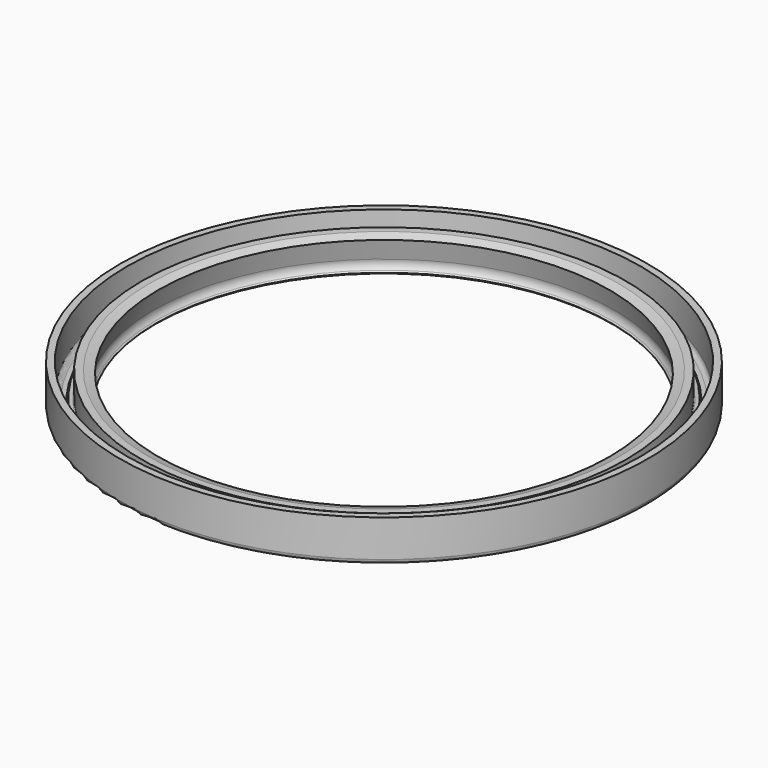
from build123d import *


with BuildPart() as f1:
    # F0 (on Front) → F1 (revolve)
    with BuildSketch(Plane.XZ):
        with BuildLine():
            Line((-111.615613, 0), (-112.615613, 0))
            Line((-112.615613, 0), (-112.615613, -10))
            ThreePointArc((-112.615613, -10), (-111.736933, -12.12132), (-109.615613, -13))
            Line((-109.615613, -13), (-103.615613, -13))
            Line((-103.615613, -13), (-103.615613, -12))
            Line((-103.615613, -12), (-107.713386, -12))
            Line((-107.713386, -12), (-109.615613, -12))
            ThreePointArc((-109.615613, -12), (-111.029827, -11.414214), (-111.615613, -10))
            Line((-111.615613, -10), (-111.615613, 0))
        make_face()
    revolve(axis=Axis((0, 0, -6.601267), (0, 0, -1)))

    # F0 (on Front) → F2 (revolve)
    with BuildSketch(Plane.XZ):
        with BuildLine():
            Line((-112.615613, -10), (-112.615613, 0))
            Line((-112.615613, 0), (-111.615613, 0))
            Line((-111.615613, 0), (-111.615613, 3.417919))
            Line((-111.615613, 3.417919), (-114.615613, 3.417919))
            Line((-114.615613, 3.417919), (-114.615613, -12.655137))
            ThreePointArc((-114.615613, -12.655137), (-114.029827, -14.069351), (-112.615613, -14.655137))
            Line((-112.615613, -14.655137), (-103.400245, -14.655137))
            Line((-103.400245, -14.655137), (-102.500801, -12.811285))
            ThreePointArc((-102.500801, -12.811285), (-102.046328, -12.480293), (-101.517323, -12.670701))
            Line((-101.517323, -12.670701), (-99.605268, -14.773963))
            ThreePointArc((-99.605268, -14.773963), (-99.535825, -14.806592), (-99.463702, -14.780411))
            Line((-99.463702, -14.780411), (-98.838933, -14.207708))
            ThreePointArc((-98.838933, -14.207708), (-98.806599, -14.138336), (-98.832789, -14.06642))
            Line((-98.832789, -14.06642), (-99.396842, -13.45109))
            ThreePointArc((-99.396842, -13.45109), (-100.334594, -11.694837), (-100.309546, -9.704063))
            Line((-100.309546, -9.704063), (-97.99774, -1.154706))
            Line((-97.99774, -1.154706), (-101.919606, 0))
            Line((-101.919606, 0), (-105.074003, 0))
            Line((-105.074003, 0), (-105.074003, -10.005803))
            ThreePointArc((-105.074003, -10.005803), (-105.199717, -10.373351), (-105.524192, -10.586919))
            Line((-105.524192, -10.586919), (-107.069634, -10.985743))
            Line((-107.069634, -10.985743), (-107.713386, -12))
            Line((-107.713386, -12), (-103.615613, -12))
            Line((-103.615613, -12), (-103.615613, -13))
            Line((-103.615613, -13), (-109.615613, -13))
            ThreePointArc((-109.615613, -13), (-111.736933, -12.12132), (-112.615613, -10))
        make_face()
    revolve(axis=Axis((0, 0, -6.601267), (0, 0, -1)))


solid = f1.part
